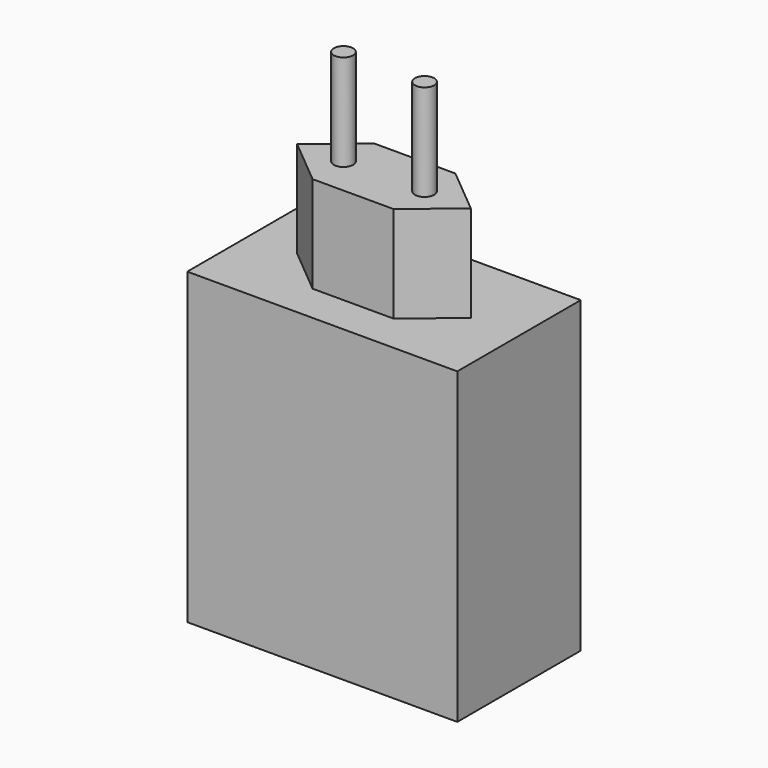
from build123d import *

# Parameters (mm, degrees)
F0_W     = 70
F0_H     = 80
F1_DEPTH = 20
F3_DEPTH = 25
F4_R     = 2.5
F5_DEPTH = 25
F6_W     = 10
F6_H     = 25
F7_DEPTH = 79.4


with BuildPart() as f1:
    # F0 (on Front) → F1 (new body, symmetric)
    with BuildSketch(Plane.XZ):
        Rectangle(F0_W, F0_H)
    extrude(amount=F1_DEPTH, both=True)

    # F2 (on face) → F3 (join)
    with BuildSketch(Plane.XY.offset(40)):
        Polygon((22.5, 0), (10.509629, 10), (-10.509629, 10), (-22.5, 0), (-10.509629, -10), (10.509629, -10), align=None)
    extrude(amount=F3_DEPTH)

    # F4 (on face) → F5 (join)
    with BuildSketch(Plane.XY.offset(65)):
        with Locations((-10.509629, 0)):
            Circle(F4_R)
        with Locations((10.509629, 0)):
            Circle(F4_R)
    extrude(amount=F5_DEPTH)

    # F6 (on Top) → F7 (cut)
    with BuildSketch(Plane.XY):
        with Locations((-20.256918, 0)):
            Rectangle(F6_W, F6_H)
    extrude(amount=-F7_DEPTH, mode=Mode.SUBTRACT)


solid = f1.part
